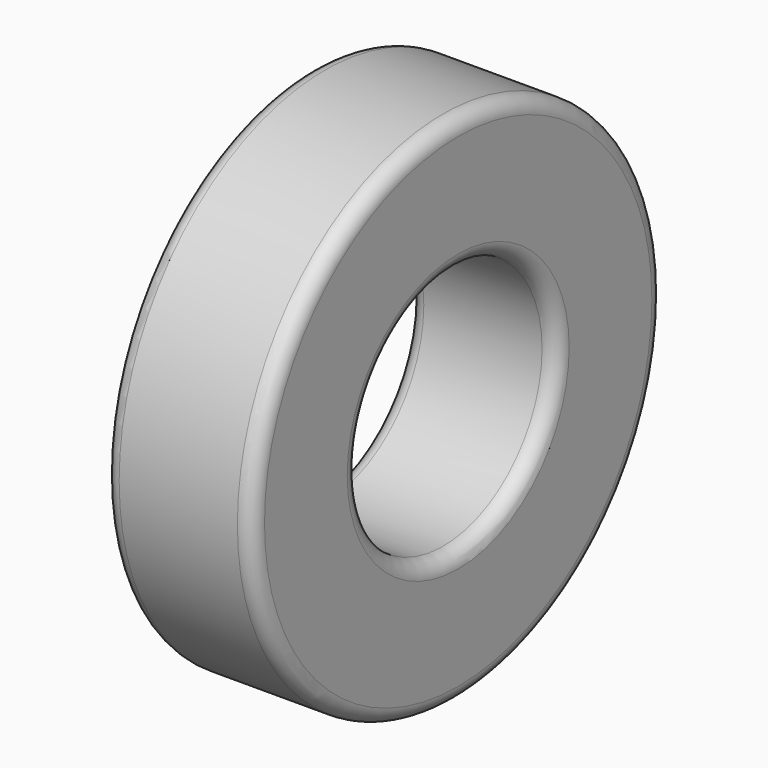
from build123d import *

# Parameters (mm, degrees)
F0_R     = 25.9969
F0_R_2   = 12.50061
F1_DEPTH = 14.9987
F2_R     = 1.524


with BuildPart() as f1:
    # F0 (on Right) → F1 (new body)
    with BuildSketch(Plane.YZ):
        Circle(F0_R)
        Circle(F0_R_2, mode=Mode.SUBTRACT)
    extrude(amount=-F1_DEPTH)

    # F2
    f2_edges = [f1.edges().sort_by_distance(p)[0] for p in [
        (0, -25.9969, 0),
        (0, -12.50061, 0),
        (-14.9987, -25.9969, 0),
        (-14.9987, -12.50061, 0),
    ]]
    fillet(f2_edges, radius=F2_R)


solid = f1.part
